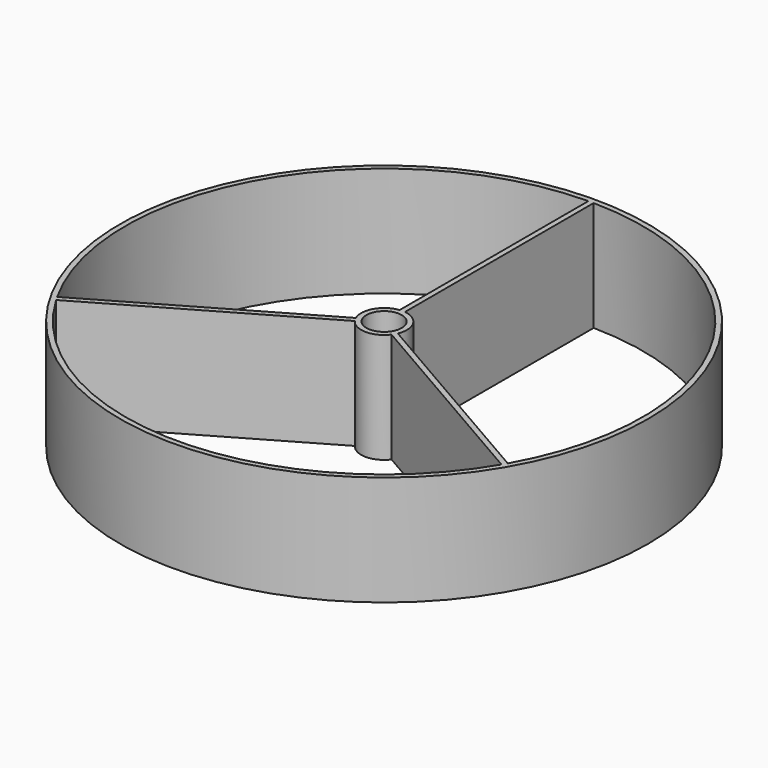
from build123d import *

# Parameters (mm, degrees)
F0_R     = 60
F0_R_2   = 4
F1_DEPTH = 25


with BuildPart() as f1:
    # F0 (on Top) → F1 (new body)
    with BuildSketch(Plane.XY):
        Circle(F0_R)
        with BuildLine():
            ThreePointArc((50.619643, -29.918085), (0, -58.8), (-50.619643, -29.918085))
            Line((-50.619643, -29.918085), (-4.173254, -3.10225))
            ThreePointArc((-4.173254, -3.10225), (0, -5.2), (4.173254, -3.10225))
            Line((4.173254, -3.10225), (50.619643, -29.918085))
        make_face(mode=Mode.SUBTRACT)
        with BuildLine():
            ThreePointArc((-51.219643, -28.878854), (-50.922294, 29.4), (-0.6, 58.796939))
            Line((-0.6, 58.796939), (-0.6, 5.165269))
            ThreePointArc((-0.6, 5.165269), (-4.503332, 2.6), (-4.773254, -2.063019))
            Line((-4.773254, -2.063019), (-51.219643, -28.878854))
        make_face(mode=Mode.SUBTRACT)
        Circle(F0_R_2, mode=Mode.SUBTRACT)
        with BuildLine():
            Line((0.6, 5.165269), (0.6, 58.796939))
            ThreePointArc((0.6, 58.796939), (50.922294, 29.4), (51.219643, -28.878854))
            Line((51.219643, -28.878854), (4.773254, -2.063019))
            ThreePointArc((4.773254, -2.063019), (4.503332, 2.6), (0.6, 5.165269))
        make_face(mode=Mode.SUBTRACT)
    extrude(amount=F1_DEPTH)


solid = f1.part
